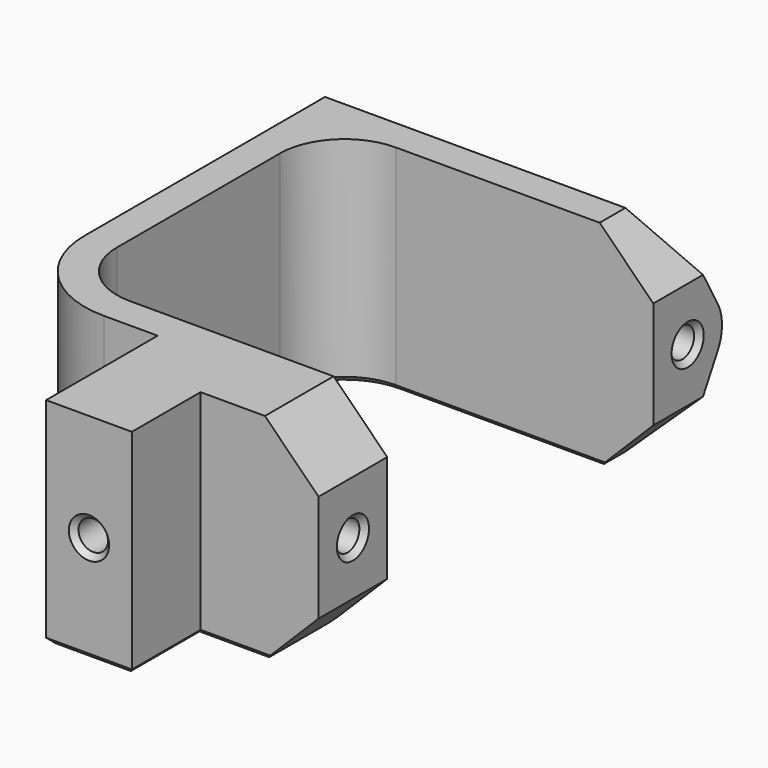
from build123d import *

# Parameters (mm, degrees)
PAD_DEPTH            = 10
SKETCH001_R          = 1.375
POCKET_DEPTH         = 10
PAD001_DEPTH         = 33
SKETCH003_R          = 1.375
POCKET001_DEPTH      = 10
SKETCH004_R          = 1.375
POCKET002_DEPTH      = 10
FILLET_1_R           = 9
FILLET_2_R           = 6
CHAMFER_SIZE         = 5
CHAMFER001_SIZE      = 0.5
CHAMFER002_SIZE      = 0.5
CLONE001_PITCH_ANGLE = -90


with BuildPart() as part:
    # Sketch → Pad (new body, symmetric)
    with BuildSketch(Plane.YZ):
        Polygon((4, 4), (17, 4), (17, 18), (54, 18), (54, -15), (51, -15), (51, 15), (20, 15), (20, -15), (12, -15), (12, -4), (4, -4), align=None)
    extrude(amount=PAD_DEPTH, both=True)

    # Sketch001 → Pocket (cut)
    with BuildSketch(Plane(origin=(0, 4, 0), x_dir=(0, 0, -1), z_dir=(0, -1, 0))):
        Circle(SKETCH001_R)
    extrude(amount=-POCKET_DEPTH, mode=Mode.SUBTRACT)

    # Sketch002 → Pad001 (new body)
    with BuildSketch(Plane(origin=(0, 0, 18), x_dir=(0, -1, 0), z_dir=(0, 0, 1))):
        with BuildLine():
            ThreePointArc((-58.492889, 1.949289), (-59, 0), (-58.492889, -1.949289))
            Line((-54, -10), (-58.492889, -1.949289))
            Line((-54, 10), (-54, -10))
            Line((-58.492889, 1.949289), (-54, 10))
        make_face()
    extrude(amount=-PAD001_DEPTH)

    # Sketch003 → Pocket001 (cut)
    with BuildSketch(Plane(origin=(0, 0, 18), x_dir=(0, -1, 0), z_dir=(0, 0, 1))):
        with Locations((-55, 0)):
            Circle(SKETCH003_R)
    extrude(amount=-POCKET001_DEPTH, mode=Mode.SUBTRACT)

    # Sketch004 → Pocket002 (cut)
    with BuildSketch(Plane.YX.offset(15)):
        with Locations((55, 0)):
            Circle(SKETCH004_R)
        with Locations((16, 0)):
            Circle(SKETCH004_R)
    extrude(amount=-POCKET002_DEPTH, mode=Mode.SUBTRACT)

    # Fillet 1
    fillet_1_edges = [part.edges().sort_by_distance(p)[0] for p in [
        (0, 17, 18),
    ]]
    fillet(fillet_1_edges, radius=FILLET_1_R)

    # Fillet 2
    fillet_2_edges = [part.edges().sort_by_distance(p)[0] for p in [
        (0, 20, 15),
        (0, 51, 15),
    ]]
    fillet(fillet_2_edges, radius=FILLET_2_R)

    # Chamfer
    chamfer_edges = [part.edges().sort_by_distance(p)[0] for p in [
        (-10, 52.5, -15),
        (-10, 16, -15),
        (10, 52.5, -15),
        (10, 16, -15),
    ]]
    chamfer(chamfer_edges, length=CHAMFER_SIZE)

    # Chamfer001
    chamfer001_edges = [part.edges().sort_by_distance(p)[0] for p in [
        (0, 56.375, 18),
        (0, 4, 1.375),
        (0, 53.625, -15),
        (0, 14.625, -15),
    ]]
    chamfer(chamfer001_edges, length=CHAMFER001_SIZE)

    # Chamfer002
    chamfer002_edges = [part.edges().sort_by_distance(p)[0] for p in [
        (-10, 40, 18),
        (-10, 51, -0.5),
        (-10, 19.636039, 15.363961),
        (-10, 49.242641, 13.242641),
        (-10, 17, 6.5),
        (-10, 35.5, 15),
        (-10, 10.5, 4),
        (-10, 21.757359, 13.242641),
        (-10, 4, 0),
        (-10, 20, -0.5),
        (-10, 8, -4),
        (-10, 12, -7),
    ]]
    chamfer(chamfer002_edges, length=CHAMFER002_SIZE)


with BuildPart() as part_1:
    # Clone001 pitch: moved
    add(part.part.rotate(Axis((0, 0, 0), (0, 1, 0)), CLONE001_PITCH_ANGLE))


with BuildPart() as part_2:
    # Clone001 placement: moved
    add(part_1.part)


solid = part_2.part
